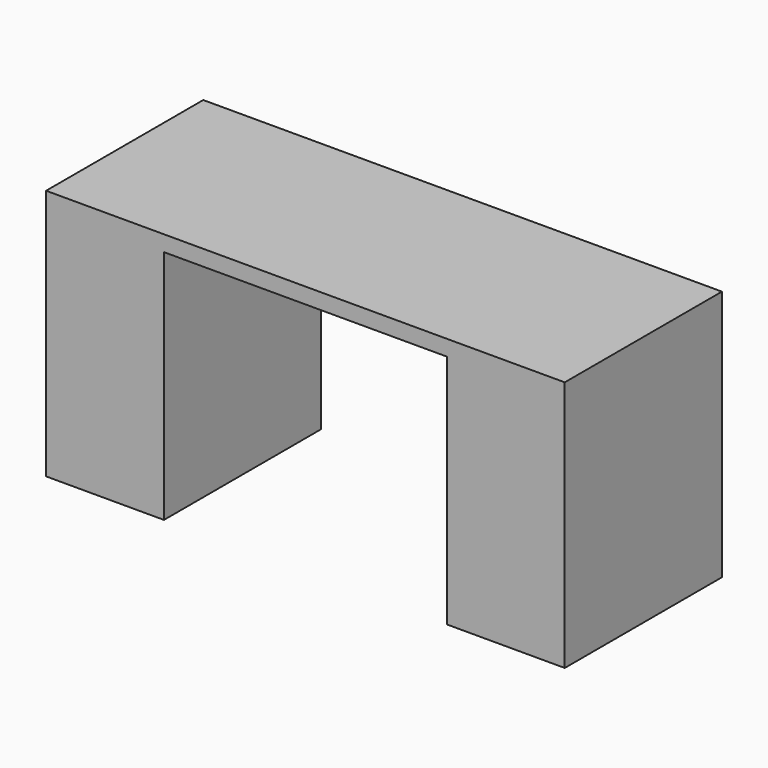
from build123d import *

# Parameters (mm, degrees)
F1_DEPTH = 635
F0_W     = 381
F0_H     = 190.5
F0_H_2   = 215.9
F0_H_3   = 152.4
F0_H_4   = 355.6
F0_H_5   = 304.8
F2_DEPTH = 635


with BuildPart() as f1:
    # F0 (on Front) → F1 (new body)
    with BuildSketch(Plane.XZ):
        Polygon((-838.2, 25.4), (-838.2, -25.4), (-457.2, -25.4), (457.2, -25.4), (838.2, -25.4), (838.2, 25.4), align=None)
    extrude(amount=F1_DEPTH)

    # F0 (on Front) → F2 (join)
    with BuildSketch(Plane.XZ):
        Polygon((-838.2, 25.4), (-838.2, -25.4), (-457.2, -25.4), (457.2, -25.4), (838.2, -25.4), (838.2, 25.4), align=None)
        with Locations((-647.7, -120.65)):
            Rectangle(F0_W, F0_H)
        with Locations((-647.7, -323.85)):
            Rectangle(F0_W, F0_H_2)
        with Locations((647.7, -101.6)):
            Rectangle(F0_W, F0_H_3)
        with Locations((-647.7, -609.6)):
            Rectangle(F0_W, F0_H_4)
        with Locations((647.7, -330.2)):
            Rectangle(F0_W, F0_H_5)
        with Locations((647.7, -635)):
            Rectangle(F0_W, F0_H_5)
    extrude(amount=F2_DEPTH)


solid = f1.part
